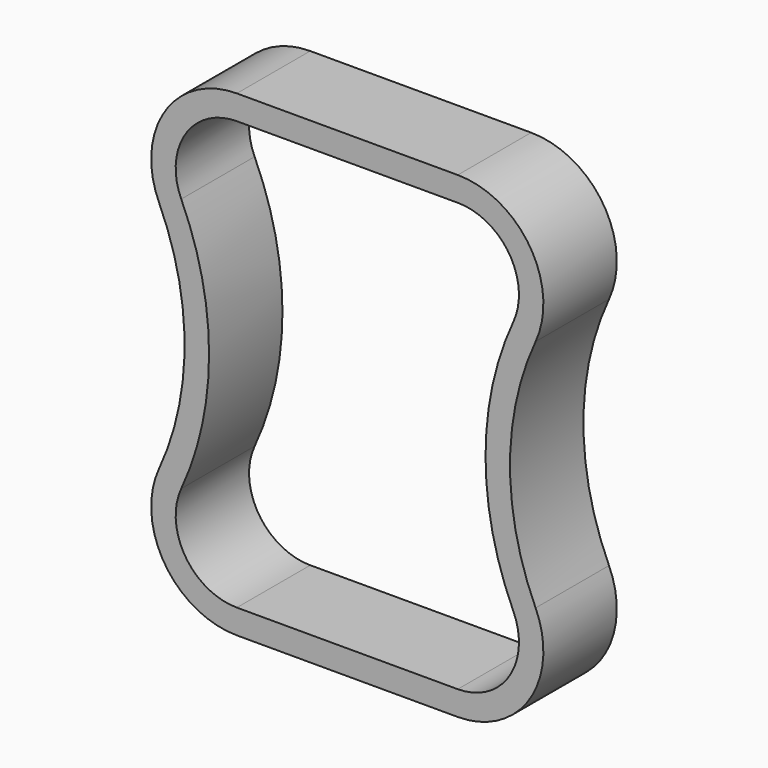
from build123d import *

# Parameters (mm, degrees)
F1_DEPTH = 9.525


with BuildPart() as f1:
    # F0 (on Front) → F1 (new body)
    with BuildSketch(Plane.XZ):
        with BuildLine():
            ThreePointArc((-19.547377, 34.395833), (-16.891, 22.225), (-19.547377, 10.054167))
            ThreePointArc((-19.547377, 10.054167), (-18.947889, 1.548851), (-11.465839, -2.54))
            Line((-11.465839, -2.54), (0, -2.54))
            Line((0, -2.54), (11.465839, -2.54))
            ThreePointArc((11.465839, -2.54), (18.947889, 1.548851), (19.547377, 10.054167))
            ThreePointArc((19.547377, 10.054167), (16.891, 22.225), (19.547377, 34.395833))
            ThreePointArc((19.547377, 34.395833), (18.947889, 42.901149), (11.465839, 46.99))
            Line((11.465839, 46.99), (0, 46.99))
            Line((0, 46.99), (-11.465839, 46.99))
            ThreePointArc((-11.465839, 46.99), (-18.947889, 42.901149), (-19.547377, 34.395833))
        make_face()
        with BuildLine():
            Line((11.465839, 0), (0, 0))
            Line((0, 0), (-11.465839, 0))
            ThreePointArc((-11.465839, 0), (-16.81016, 2.920608), (-17.238366, 8.995833))
            ThreePointArc((-17.238366, 8.995833), (-14.351, 22.225), (-17.238366, 35.454167))
            ThreePointArc((-17.238366, 35.454167), (-16.81016, 41.529392), (-11.465839, 44.45))
            Line((-11.465839, 44.45), (0, 44.45))
            Line((0, 44.45), (11.465839, 44.45))
            ThreePointArc((11.465839, 44.45), (16.81016, 41.529392), (17.238366, 35.454167))
            ThreePointArc((17.238366, 35.454167), (14.351, 22.225), (17.238366, 8.995833))
            ThreePointArc((17.238366, 8.995833), (16.81016, 2.920608), (11.465839, 0))
        make_face(mode=Mode.SUBTRACT)
    extrude(amount=F1_DEPTH)


solid = f1.part
